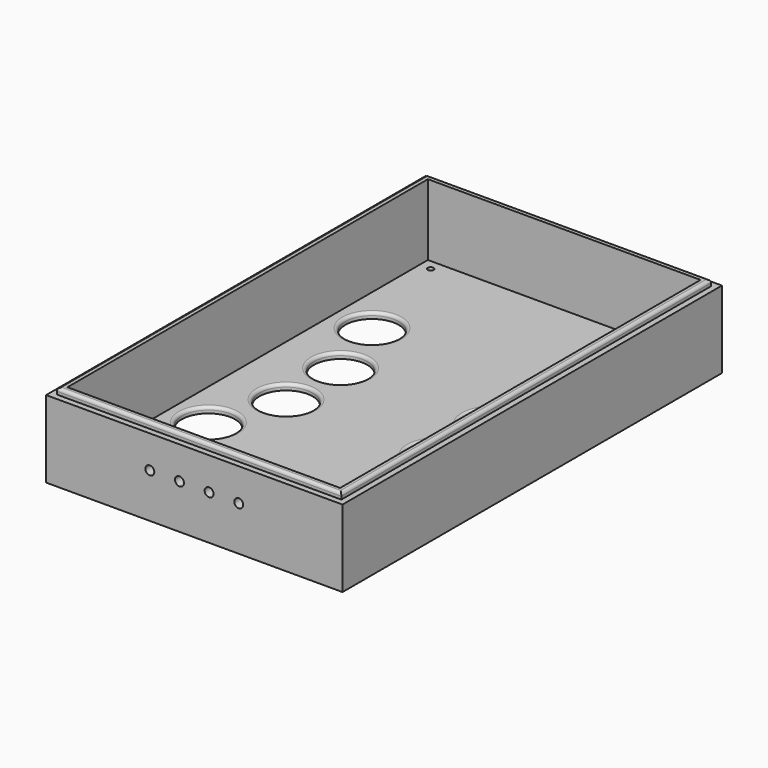
from build123d import *

# Parameters (mm, degrees)
SKETCH_W        = 100
SKETCH_H        = 160
PAD_DEPTH       = 26
SKETCH001_W     = 96
SKETCH001_H     = 156
PAD001_DEPTH    = 28
SKETCH005_W     = 92
SKETCH005_H     = 152
POCKET_DEPTH    = 24
SKETCH003_R     = 9
POCKET001_DEPTH = 28.001
SKETCH002_R     = 1
POCKET002_DEPTH = 28.001
SKETCH006_W     = 96
SKETCH006_H     = 156
POCKET003_DEPTH = 2
SKETCH007_R     = 1.5
POCKET004_DEPTH = 10
FILLET_R        = 1
FILLET001_R     = 1


with BuildPart() as part:
    # Sketch → Pad (new body)
    with BuildSketch(Plane.XY):
        Rectangle(SKETCH_W, SKETCH_H)
    extrude(amount=PAD_DEPTH)

    # Sketch001 → Pad001 (join)
    with BuildSketch(Plane.XY):
        Rectangle(SKETCH001_W, SKETCH001_H)
    extrude(amount=PAD001_DEPTH)

    # Sketch005 → Pocket (cut)
    with BuildSketch(Plane.XY.offset(28)):
        Rectangle(SKETCH005_W, SKETCH005_H)
    extrude(amount=-POCKET_DEPTH, mode=Mode.SUBTRACT)

    # Sketch003 → Pocket001 (cut, through all)
    with BuildSketch(Plane.XY):
        with Locations((33.25, 36.5)):
            Circle(SKETCH003_R)
        with Locations((25.45, 13.5)):
            Circle(SKETCH003_R)
        with Locations((25.45, -9.5)):
            Circle(SKETCH003_R)
        with Locations((33.25, -32.5)):
            Circle(SKETCH003_R)
        with Locations((-33.25, 36.5)):
            Circle(SKETCH003_R)
        with Locations((-25.45, 13.5)):
            Circle(SKETCH003_R)
        with Locations((-25.45, -9.5)):
            Circle(SKETCH003_R)
        with Locations((-33.25, -32.5)):
            Circle(SKETCH003_R)
    extrude(amount=POCKET001_DEPTH, mode=Mode.SUBTRACT)

    # Sketch002 → Pocket002 (cut, through all)
    with BuildSketch(Plane.XY):
        with Locations((42.25, 72.5)):
            Circle(SKETCH002_R)
        with Locations((-42.25, 72.5)):
            Circle(SKETCH002_R)
        with Locations((42.25, -72.5)):
            Circle(SKETCH002_R)
        with Locations((-42.25, -72.5)):
            Circle(SKETCH002_R)
    extrude(amount=POCKET002_DEPTH, mode=Mode.SUBTRACT)

    # Sketch006 → Pocket003 (cut)
    with BuildSketch(Plane.XY):
        Rectangle(SKETCH006_W, SKETCH006_H)
    extrude(amount=POCKET003_DEPTH, mode=Mode.SUBTRACT)

    # Sketch007 → Pocket004 (cut)
    with BuildSketch(Plane.XZ.offset(80)):
        with Locations((-15, 15)):
            Circle(SKETCH007_R)
        with Locations((-5, 15)):
            Circle(SKETCH007_R)
        with Locations((5, 15)):
            Circle(SKETCH007_R)
        with Locations((15, 15)):
            Circle(SKETCH007_R)
    extrude(amount=-POCKET004_DEPTH, mode=Mode.SUBTRACT)

    # Fillet
    fillet_edges = [part.edges().sort_by_distance(p)[0] for p in [
        (-42.25, -32.5, 4),
        (-34.45, -9.5, 4),
        (-34.45, 13.5, 4),
        (-42.25, 36.5, 4),
        (24.25, 36.5, 4),
        (16.45, 13.5, 4),
        (16.45, -9.5, 4),
        (24.25, -32.5, 4),
    ]]
    fillet(fillet_edges, radius=FILLET_R)

    # Fillet001
    fillet001_edges = [part.edges().sort_by_distance(p)[0] for p in [
        (-48, 0, 28),
        (0, 78, 28),
        (48, 0, 28),
        (0, -78, 28),
    ]]
    fillet(fillet001_edges, radius=FILLET001_R)


solid = part.part
